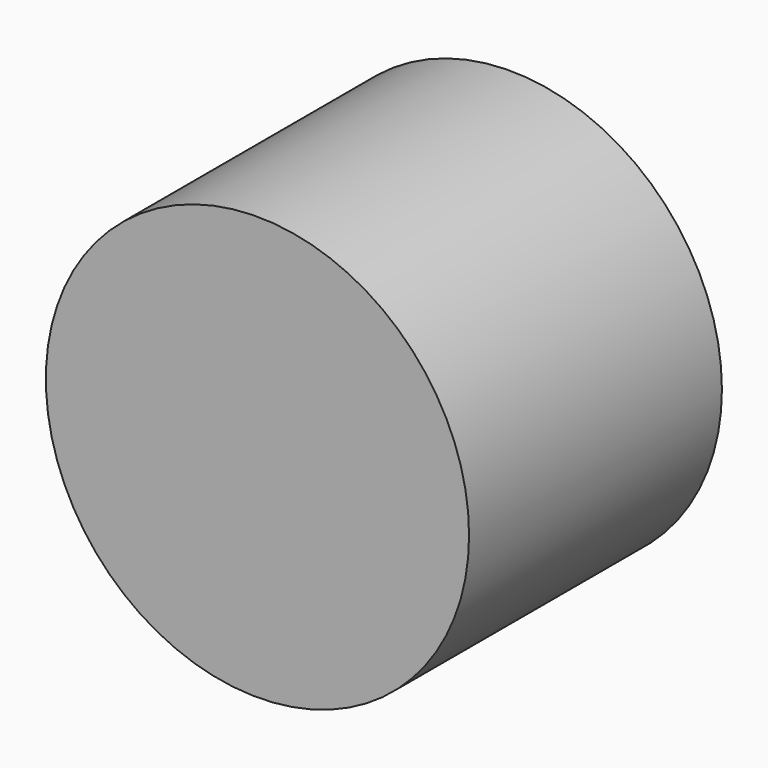
from build123d import *

# Parameters (mm, degrees)
F0_R      = 9.693561
F1_DEPTH  = 8.89
F1_FACE_R = 9.693561
F2_DEPTH  = 14.478


with BuildPart() as f1:
    # F0 (on Front) → F1 (new body)
    with BuildSketch(Plane.XZ):
        with Locations((-125.988945, 22.569159)):
            Circle(F0_R)
    extrude(amount=-F1_DEPTH)

    # F1_face (on face) → F2 (join)
    with BuildSketch(Plane(origin=(-125.988945, 0, 22.569159), x_dir=(1, 0, 0), z_dir=(0, -1, 0))):
        Circle(F1_FACE_R)
    extrude(amount=-F2_DEPTH)


solid = f1.part
